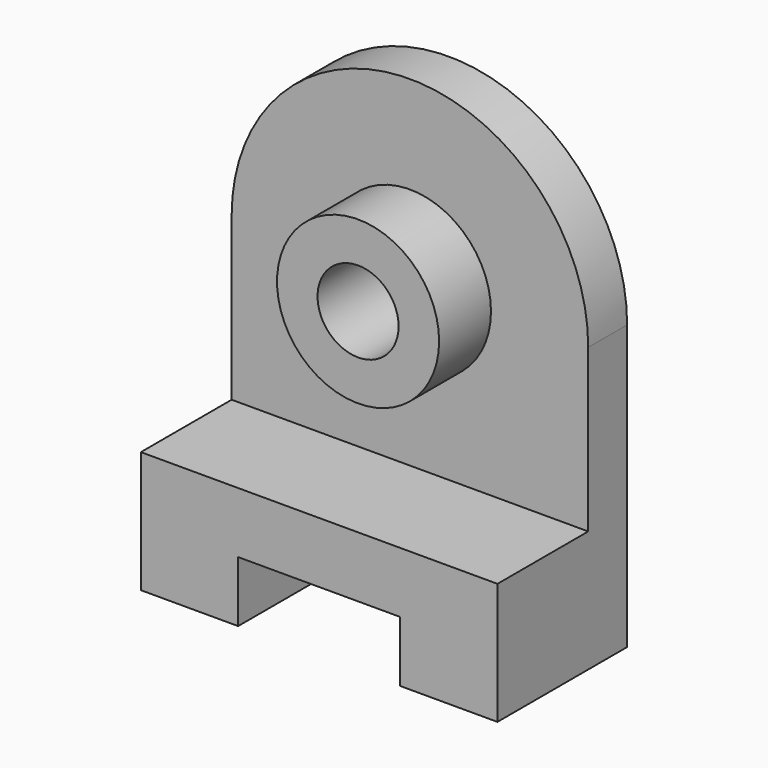
from build123d import *

# Parameters (mm, degrees)
F0_R     = 20
F1_DEPTH = 12
F2_DEPTH = 40
F0_R_2   = 10
F3_DEPTH = 28
F4_DEPTH = 25


with BuildPart() as f1:
    # F0 (on Front) → F1 (new body)
    with BuildSketch(Plane.XZ):
        with BuildLine():
            Line((0, 70), (0, 30))
            Line((0, 30), (88, 30))
            Line((88, 30), (88, 70))
            ThreePointArc((88, 70), (44, 114), (0, 70))
        make_face()
        with Locations((44, 70)):
            Circle(F0_R, mode=Mode.SUBTRACT)
    extrude(amount=F1_DEPTH)

    # F0 (on Front) → F2 (join)
    with BuildSketch(Plane.XZ):
        Polygon((0, 30), (0, 0), (24, 0), (24, 15), (64, 15), (64, 0), (88, 0), (88, 30), align=None)
    extrude(amount=F2_DEPTH)

    # F0 (on Front) → F3 (join)
    with BuildSketch(Plane.XZ):
        with Locations((44, 70)):
            Circle(F0_R)
        with Locations((44, 70)):
            Circle(F0_R_2, mode=Mode.SUBTRACT)
    extrude(amount=F3_DEPTH)

    # F0 (on Front) → F4 (cut)
    with BuildSketch(Plane.XZ):
        with Locations((44, 70)):
            Circle(F0_R_2)
    extrude(amount=-F4_DEPTH, mode=Mode.SUBTRACT)


solid = f1.part
